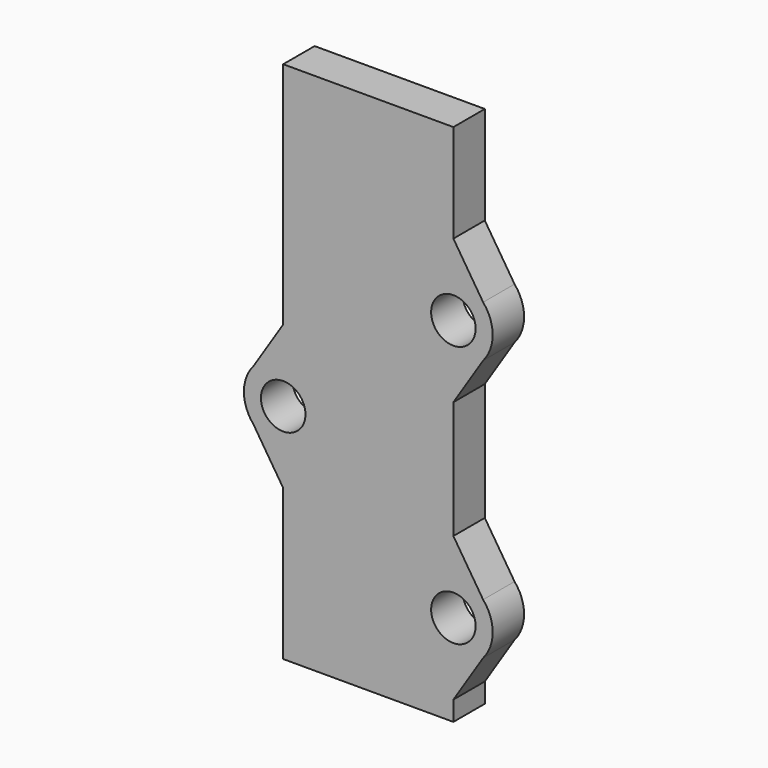
from build123d import *

# Parameters (mm, degrees)
BOX031_W               = 5.5
BOX031_H               = 10
BOX031_DEPTH           = 2.5
CYLINDER059_R          = 1.7
CYLINDER059_DEPTH      = 30
CYLINDER059_ROLL_ANGLE = 90
CYLINDER060_R          = 1.7
CYLINDER060_DEPTH      = 30
CYLINDER060_ROLL_ANGLE = 90
CYLINDER058_R          = 1.7
CYLINDER058_DEPTH      = 30
CYLINDER058_ROLL_ANGLE = 90
CYLINDER056_R          = 3
CYLINDER056_DEPTH      = 3
CYLINDER056_ROLL_ANGLE = 90
CYLINDER057_R          = 3
CYLINDER057_DEPTH      = 3
CYLINDER057_ROLL_ANGLE = 90
CYLINDER055_R          = 3
CYLINDER055_DEPTH      = 3
CYLINDER055_ROLL_ANGLE = 90
BOX029_W               = 13
BOX029_H               = 3
BOX029_DEPTH           = 40
CHAMFER007_SIZE        = 2.5


with BuildPart() as m3_nut_hole001:
    # Box031 → Box031 (new body)
    with BuildSketch(Plane(origin=(59, 11.7, 74), x_dir=(1, 0, 0), z_dir=(0, 0, 1))):
        with Locations((2.75, 5)):
            Rectangle(BOX031_W, BOX031_H)
    extrude(amount=BOX031_DEPTH)


with BuildPart() as cylinder098:
    # Cylinder059 → Cylinder059 (new body)
    with BuildSketch(Plane.XY):
        Circle(CYLINDER059_R)
    extrude(amount=CYLINDER059_DEPTH)


with BuildPart() as cylinder098_1:
    # Cylinder059 roll: moved
    add(cylinder098.part.rotate(Axis((0, 0, 0), (1, 0, 0)), CYLINDER059_ROLL_ANGLE))


with BuildPart() as cylinder098_2:
    # Cylinder059 placement: moved
    add(cylinder098_1.part.moved(Location((68, 26, 48))))


with BuildPart() as cylinder059:
    # Cylinder060 → Cylinder060 (new body)
    with BuildSketch(Plane.XY):
        Circle(CYLINDER060_R)
    extrude(amount=CYLINDER060_DEPTH)


with BuildPart() as cylinder059_1:
    # Cylinder060 roll: moved
    add(cylinder059.part.rotate(Axis((0, 0, 0), (1, 0, 0)), CYLINDER060_ROLL_ANGLE))


with BuildPart() as cylinder059_2:
    # Cylinder060 placement: moved
    add(cylinder059_1.part.moved(Location((68, 27, 68))))


with BuildPart() as fusion032:
    # Cylinder058 → Cylinder058 (new body)
    with BuildSketch(Plane.XY):
        Circle(CYLINDER058_R)
    extrude(amount=CYLINDER058_DEPTH)


with BuildPart() as fusion032_1:
    # Cylinder058 roll: moved
    add(fusion032.part.rotate(Axis((0, 0, 0), (1, 0, 0)), CYLINDER058_ROLL_ANGLE))


with BuildPart() as fusion032_2:
    # Cylinder058 placement: moved
    add(fusion032_1.part.moved(Location((55, 26, 58))))

    # Fusion032: union Cylinder098, Cylinder059
    add(cylinder098_2.part)
    add(cylinder059_2.part)


with BuildPart() as cylinder095:
    # Cylinder056 → Cylinder056 (new body)
    with BuildSketch(Plane.XY):
        Circle(CYLINDER056_R)
    extrude(amount=CYLINDER056_DEPTH)


with BuildPart() as cylinder095_1:
    # Cylinder056 roll: moved
    add(cylinder095.part.rotate(Axis((0, 0, 0), (1, 0, 0)), CYLINDER056_ROLL_ANGLE))


with BuildPart() as cylinder095_2:
    # Cylinder056 placement: moved
    add(cylinder095_1.part.moved(Location((68, 12.5, 68))))


with BuildPart() as cylinder096:
    # Cylinder057 → Cylinder057 (new body)
    with BuildSketch(Plane.XY):
        Circle(CYLINDER057_R)
    extrude(amount=CYLINDER057_DEPTH)


with BuildPart() as cylinder096_1:
    # Cylinder057 roll: moved
    add(cylinder096.part.rotate(Axis((0, 0, 0), (1, 0, 0)), CYLINDER057_ROLL_ANGLE))


with BuildPart() as cylinder096_2:
    # Cylinder057 placement: moved
    add(cylinder096_1.part.moved(Location((68, 12.5, 48))))


with BuildPart() as trolley_hubs_b:
    # Cylinder055 → Cylinder055 (new body)
    with BuildSketch(Plane.XY):
        Circle(CYLINDER055_R)
    extrude(amount=CYLINDER055_DEPTH)


with BuildPart() as trolley_hubs_b_1:
    # Cylinder055 roll: moved
    add(trolley_hubs_b.part.rotate(Axis((0, 0, 0), (1, 0, 0)), CYLINDER055_ROLL_ANGLE))


with BuildPart() as trolley_hubs_b_2:
    # Cylinder055 placement: moved
    add(trolley_hubs_b_1.part.moved(Location((55, 12.5, 58))))

    # Fusion050: union Cylinder095, Cylinder096
    add(cylinder095_2.part)
    add(cylinder096_2.part)


with BuildPart() as trolley_plate:
    # Box029 → Box029 (new body)
    with BuildSketch(Plane(origin=(55, 9.5, 41), x_dir=(1, 0, 0), z_dir=(0, 0, 1))):
        with Locations((6.5, 1.5)):
            Rectangle(BOX029_W, BOX029_H)
    extrude(amount=BOX029_DEPTH)

    # Fusion051: union trolley-hubs-b
    add(trolley_hubs_b_2.part)

    # Chamfer007
    chamfer007_edges = [trolley_plate.edges().sort_by_distance(p)[0] for p in [
        (55, 11, 55),
        (68, 11, 45),
        (55, 11, 61),
        (68, 11, 65),
        (68, 11, 51),
        (68, 11, 71),
    ]]
    chamfer(chamfer007_edges, length=CHAMFER007_SIZE)

    # Cut039: cut Fusion032
    add(fusion032_2.part, mode=Mode.SUBTRACT)

    # Cut040: cut M3-nut-hole001
    add(m3_nut_hole001.part, mode=Mode.SUBTRACT)


solid = trolley_plate.part
